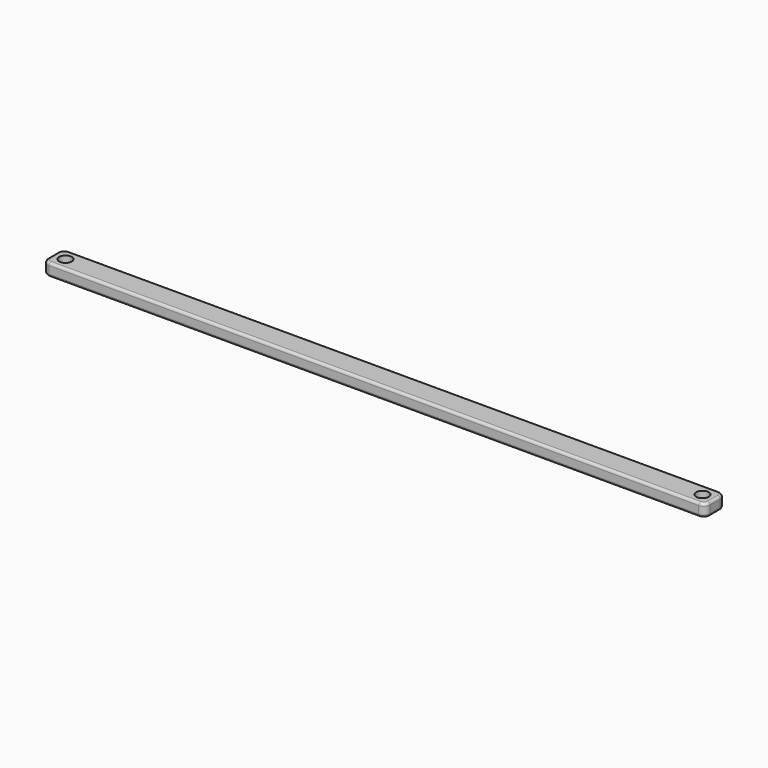
from build123d import *

# Parameters (mm, degrees)
F0_R     = 12.7
F1_DEPTH = 25.4
F3_D     = 25.4
F4_R     = 5.08


with BuildPart() as f1:
    # F0 (on Top) → F1 (new body)
    with BuildSketch(Plane.XY):
        with BuildLine():
            Line((769.519733, 50.8), (-538.580267, 50.8))
            ThreePointArc((-538.580267, 50.8), (-547.560523, 47.080256), (-551.280267, 38.1))
            Line((-551.280267, 38.1), (-551.280267, 12.7))
            ThreePointArc((-551.280267, 12.7), (-547.560523, 3.719744), (-538.580267, 0))
            Line((-538.580267, 0), (769.519733, 0))
            ThreePointArc((769.519733, 0), (778.499989, 3.719744), (782.219733, 12.7))
            Line((782.219733, 12.7), (782.219733, 38.1))
            ThreePointArc((782.219733, 38.1), (778.499989, 47.080256), (769.519733, 50.8))
        make_face()
        with Locations((-525.880267, 25.4)):
            Circle(F0_R, mode=Mode.SUBTRACT)
    extrude(amount=F1_DEPTH)

    # F3 (through all)
    with Locations(Plane(origin=(0, 0, 0), x_dir=(1, 0, 0), z_dir=(0, 0, -1))):
        with Locations((756.819733, -25.4)):
            Hole(F3_D / 2)

    # F4
    f4_edges = [f1.edges().sort_by_distance(p)[0] for p in [
        (115.469733, 0, 0),
        (-551.280267, 25.4, 0),
        (115.469733, 50.8, 0),
        (782.219733, 25.4, 0),
        (115.469733, 0, 25.4),
        (782.219733, 25.4, 25.4),
        (115.469733, 50.8, 25.4),
        (-551.280267, 25.4, 25.4),
    ]]
    fillet(f4_edges, radius=F4_R)


solid = f1.part
